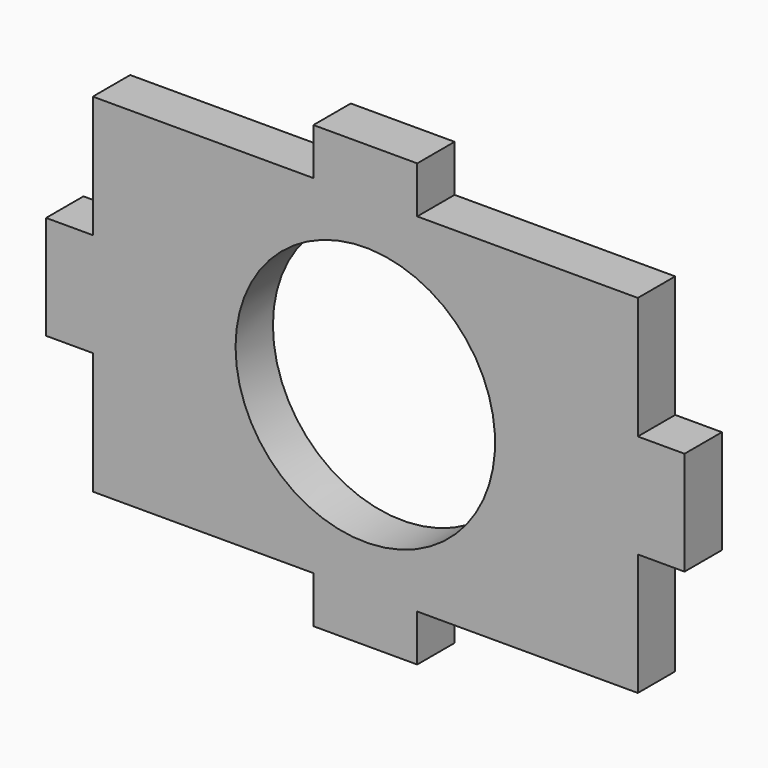
from build123d import *

# Parameters (mm, degrees)
F1_DEPTH = 9
F3_D     = 50


with BuildPart() as f1:
    # F0 (on Front) → F1 (new body)
    with BuildSketch(Plane.XZ):
        Polygon((-10, -42.5), (10, -42.5), (10, -33.5), (52.5, -33.5), (52.5, -10), (61.5, -10), (61.5, 10), (52.5, 10), (52.5, 33.5), (10, 33.5), (10, 42.5), (-10, 42.5), (-10, 33.5), (-52.5, 33.5), (-52.5, 10), (-61.5, 10), (-61.5, -10), (-52.5, -10), (-52.5, -33.5), (-10, -33.5), align=None)
    extrude(amount=F1_DEPTH)

    # F3 (through all)
    with Locations(Plane(origin=(0, 0, 0), x_dir=(1, 0, 0), z_dir=(0, 1, 0))):
        with Locations((0, 0)):
            Hole(F3_D / 2)


solid = f1.part
